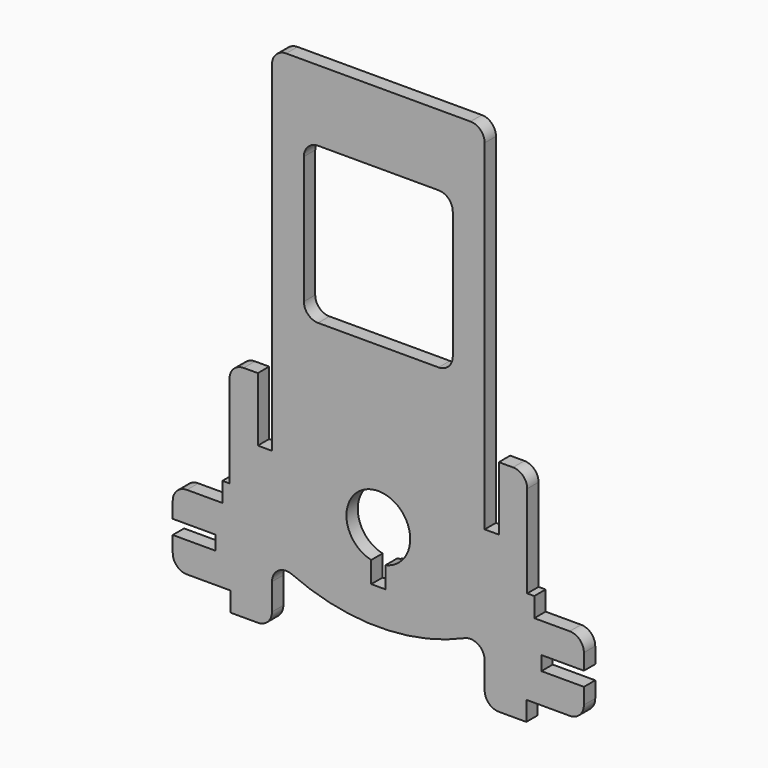
from build123d import *

# Parameters (mm, degrees)
F1_DEPTH = 2


with BuildPart() as f1:
    # F0 (on Front) → F1 (new body)
    with BuildSketch(Plane.XZ):
        with BuildLine():
            Line((-13.003751, 47.985914), (-13.003751, 17.985914))
            Line((-13.003751, 17.985914), (-13.003751, -0.014086))
            Line((-13.003751, -0.014086), (-15.003751, -0.014086))
            Line((-15.003751, -0.014086), (-15.003751, 8.985914))
            Line((-15.003751, 8.985914), (-17.003751, 8.985914))
            ThreePointArc((-17.003751, 8.985914), (-18.417965, 8.400127), (-19.003751, 6.985914))
            Line((-19.003751, 6.985914), (-19.003751, -6.014086))
            Line((-19.003751, -6.014086), (-20.003751, -6.014086))
            Line((-20.003751, -6.014086), (-20.003751, -8.764086))
            Line((-20.003751, -8.764086), (-25.003751, -8.764086))
            ThreePointArc((-25.003751, -8.764086), (-26.417965, -9.349873), (-27.003751, -10.764086))
            Line((-27.003751, -10.764086), (-27.003751, -13.014086))
            Line((-27.003751, -13.014086), (-21.003751, -13.014086))
            Line((-21.003751, -13.014086), (-21.003751, -15.014086))
            Line((-21.003751, -15.014086), (-27.003751, -15.014086))
            Line((-27.003751, -15.014086), (-27.003751, -17.264086))
            ThreePointArc((-27.003751, -17.264086), (-26.417965, -18.6783), (-25.003751, -19.264086))
            Line((-25.003751, -19.264086), (-18.877196, -19.264086))
            Line((-18.877196, -19.264086), (-18.877196, -22.014086))
            Line((-18.877196, -22.014086), (-15.003751, -22.014086))
            ThreePointArc((-15.003751, -22.014086), (-13.589538, -21.4283), (-13.003751, -20.014086))
            Line((-13.003751, -20.014086), (-13.003751, -16.266214))
            ThreePointArc((-13.003751, -16.266214), (-12.094926, -14.590106), (-10.194413, -14.437287))
            ThreePointArc((-10.194413, -14.437287), (1.996249, -17.014086), (14.18691, -14.437287))
            ThreePointArc((14.18691, -14.437287), (16.087423, -14.590106), (16.996249, -16.266214))
            Line((16.996249, -16.266214), (16.996249, -20.014086))
            ThreePointArc((16.996249, -20.014086), (17.582035, -21.4283), (18.996249, -22.014086))
            Line((18.996249, -22.014086), (22.869694, -22.014086))
            Line((22.869694, -22.014086), (22.869694, -19.264086))
            Line((22.869694, -19.264086), (28.996249, -19.264086))
            ThreePointArc((28.996249, -19.264086), (30.410462, -18.6783), (30.996249, -17.264086))
            Line((30.996249, -17.264086), (30.996249, -15.014086))
            Line((30.996249, -15.014086), (24.996249, -15.014086))
            Line((24.996249, -15.014086), (24.996249, -13.014086))
            Line((24.996249, -13.014086), (30.996249, -13.014086))
            Line((30.996249, -13.014086), (30.996249, -10.764086))
            ThreePointArc((30.996249, -10.764086), (30.410462, -9.349873), (28.996249, -8.764086))
            Line((28.996249, -8.764086), (23.996249, -8.764086))
            Line((23.996249, -8.764086), (23.996249, -6.014086))
            Line((23.996249, -6.014086), (22.996249, -6.014086))
            Line((22.996249, -6.014086), (22.996249, 6.985914))
            ThreePointArc((22.996249, 6.985914), (22.410462, 8.400127), (20.996249, 8.985914))
            Line((20.996249, 8.985914), (18.996249, 8.985914))
            Line((18.996249, 8.985914), (18.996249, -0.014086))
            Line((18.996249, -0.014086), (16.996249, -0.014086))
            Line((16.996249, -0.014086), (16.996249, 17.985914))
            Line((16.996249, 17.985914), (16.996249, 47.985914))
            ThreePointArc((16.996249, 47.985914), (16.410462, 49.400127), (14.996249, 49.985914))
            Line((14.996249, 49.985914), (-11.003751, 49.985914))
            ThreePointArc((-11.003751, 49.985914), (-12.417965, 49.400127), (-13.003751, 47.985914))
        make_face()
        with BuildLine():
            Line((2.996249, -12.014086), (0.996249, -12.014086))
            Line((0.996249, -12.014086), (0.996249, -9.014086))
            ThreePointArc((0.996249, -9.014086), (1.996249, -0.126604), (2.996249, -9.014086))
            Line((2.996249, -9.014086), (2.996249, -12.014086))
        make_face(mode=Mode.SUBTRACT)
        with BuildLine():
            ThreePointArc((-8.503751, 37.985914), (-7.917965, 39.400127), (-6.503751, 39.985914))
            Line((-6.503751, 39.985914), (10.496249, 39.985914))
            ThreePointArc((10.496249, 39.985914), (11.910462, 39.400127), (12.496249, 37.985914))
            Line((12.496249, 37.985914), (12.496249, 19.985914))
            ThreePointArc((12.496249, 19.985914), (11.910462, 18.5717), (10.496249, 17.985914))
            Line((10.496249, 17.985914), (-6.503751, 17.985914))
            ThreePointArc((-6.503751, 17.985914), (-7.917965, 18.5717), (-8.503751, 19.985914))
            Line((-8.503751, 19.985914), (-8.503751, 37.985914))
        make_face(mode=Mode.SUBTRACT)
    extrude(amount=F1_DEPTH)


solid = f1.part
